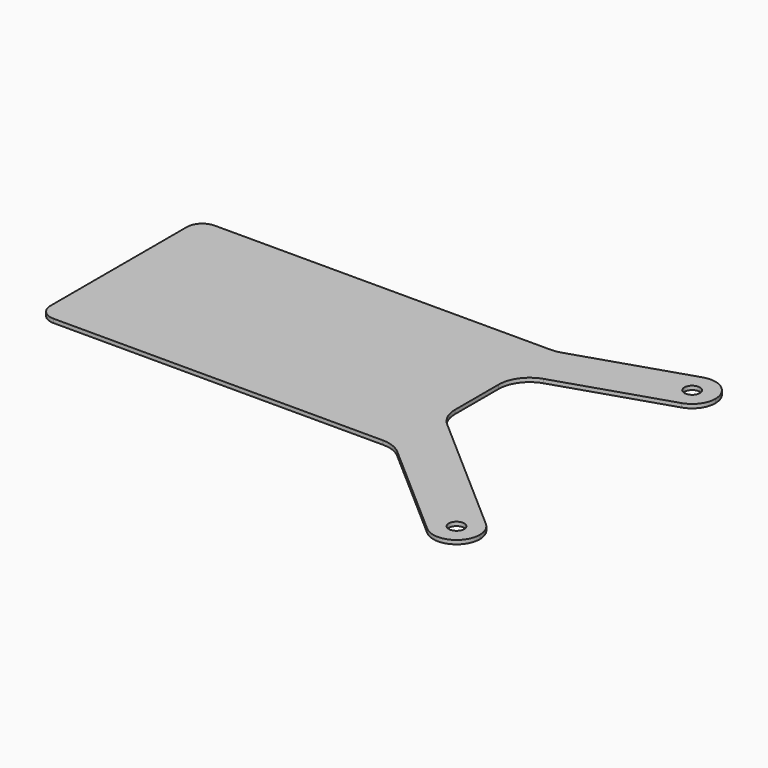
from build123d import *

# Parameters (mm, degrees)
F0_R     = 3.175
F1_DEPTH = 1.6002


with BuildPart() as f1:
    # F0 (on Top) → F1 (new body)
    with BuildSketch(Plane.XY):
        with BuildLine():
            Line((71.03084, 41.275), (-66.675, 41.275))
            ThreePointArc((-66.675, 41.275), (-71.165128, 39.415128), (-73.025, 34.925))
            Line((-73.025, 34.925), (-73.025, -34.925))
            ThreePointArc((-73.025, -34.925), (-71.165128, -39.415128), (-66.675, -41.275))
            Line((-66.675, -41.275), (68.257173, -41.275))
            ThreePointArc((68.257173, -41.275), (72.720813, -42.08526), (76.614892, -44.41265))
            Line((76.614892, -44.41265), (117.556711, -80.196762))
            ThreePointArc((117.556711, -80.196762), (116.653238, -66.756711), (130.093289, -65.853238))
            Line((130.093289, -65.853238), (77.367281, -19.769467))
            ThreePointArc((77.367281, -19.769467), (74.161414, -15.458163), (73.025, -10.207117))
            Line((73.025, -10.207117), (73.025, 12.008943))
            ThreePointArc((73.025, 12.008943), (75.460428, 19.487483), (81.832647, 24.097764))
            Line((81.832647, 24.097764), (126.744264, 38.558384))
            ThreePointArc((126.744264, 38.558384), (114.758384, 44.705736), (120.905736, 56.691616))
            Line((120.905736, 56.691616), (74.923192, 41.886179))
            ThreePointArc((74.923192, 41.886179), (73.000862, 41.428725), (71.03084, 41.275))
        make_face()
        with BuildLine():
            ThreePointArc((133.35, 47.625), (129.433905, 55.323429), (120.905736, 56.691616))
            ThreePointArc((120.905736, 56.691616), (114.758384, 44.705736), (126.744264, 38.558384))
            ThreePointArc((126.744264, 38.558384), (131.523429, 42.016095), (133.35, 47.625))
        make_face()
        with Locations((123.825, 47.625)):
            Circle(F0_R, mode=Mode.SUBTRACT)
        with BuildLine():
            ThreePointArc((130.093289, -65.853238), (116.653238, -66.756711), (117.556711, -80.196762))
            ThreePointArc((117.556711, -80.196762), (127.763285, -81.697689), (133.35, -73.025))
            ThreePointArc((133.35, -73.025), (132.497689, -69.086715), (130.093289, -65.853238))
        make_face()
        with Locations((123.825, -73.025)):
            Circle(F0_R, mode=Mode.SUBTRACT)
    extrude(amount=F1_DEPTH)


solid = f1.part
